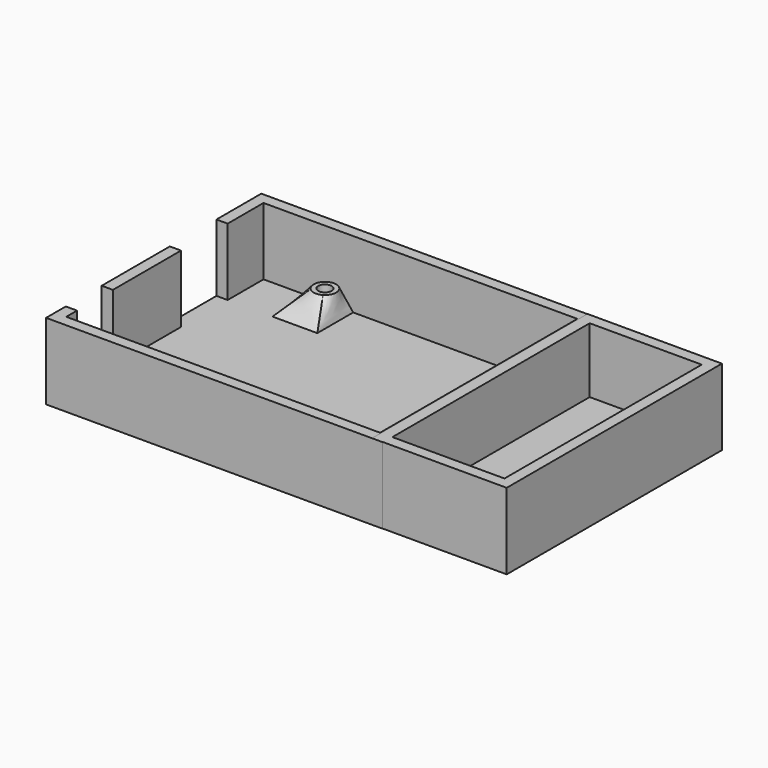
from build123d import *

# Parameters (mm, degrees)
F0_W      = 75
F0_H      = 60
F1_DEPTH  = 2
F2_W      = 75
F2_H      = 60
F2_W_2    = 70
F2_H_2    = 55
F3_DEPTH  = 15
F4_W      = 10
F4_H      = 10
F4_H_2    = 12
F11_D     = 3
F12_W     = 10
F12_H     = 15
F12_W_2   = 13
F13_DEPTH = 2.5
F14_W     = 30
F14_H     = 60
F15_DEPTH = 17
F16_T     = -2.5


with BuildPart() as f1:
    # F0 (on Top) → F1 (new body)
    with BuildSketch(Plane.XY):
        Rectangle(F0_W, F0_H)
    extrude(amount=F1_DEPTH)

    # F2 (on face) → F3 (join)
    with BuildSketch(Plane.XY.offset(2)):
        Rectangle(F2_W, F2_H)
        Rectangle(F2_W_2, F2_H_2, mode=Mode.SUBTRACT)
    extrude(amount=F3_DEPTH)

    # F4 (on face) → F7 section 0
    with BuildSketch(Plane.XY.offset(2)):
        with Locations((-20, 22.5)):
            Rectangle(F4_W, F4_H)
    # F6 (on offset) → F7 section 1
    with BuildSketch(Plane.XY.offset(7)):
        with BuildLine():
            ThreePointArc((-20.293224, 22.258062), (-18.819991, 21.520563), (-17.207788, 21.859863))
            ThreePointArc((-17.207788, 21.859863), (-16.000779, 23.937586), (-17.102572, 26.072968))
            ThreePointArc((-17.102572, 26.072968), (-18.99862, 26.449771), (-20.596534, 25.361817))
            ThreePointArc((-20.596534, 25.361817), (-20.988147, 23.756849), (-20.293224, 22.258062))
        make_face()
    loft()

    # F4 (on face) → F8 section 0
    with BuildSketch(Plane.XY.offset(2)):
        with Locations((30, 7.5)):
            Rectangle(F4_W, F4_H)
    # F6 (on offset) → F8 section 1
    with BuildSketch(Plane.XY.offset(7)):
        with BuildLine():
            ThreePointArc((29.818347, 6.650123), (31.321839, 6.006356), (32.901582, 6.429838))
            ThreePointArc((32.901582, 6.429838), (33.991199, 8.290416), (33.227758, 10.306891))
            ThreePointArc((33.227758, 10.306891), (31.280438, 10.99034), (29.482742, 9.976709))
            ThreePointArc((29.482742, 9.976709), (29.012626, 8.249059), (29.818347, 6.650123))
        make_face()
    loft()

    # F4 (on face) → F9 section 0
    with BuildSketch(Plane.XY.offset(2)):
        with Locations((30, -21.5)):
            Rectangle(F4_W, F4_H_2)
    # F6 (on offset) → F9 section 1
    with BuildSketch(Plane.XY.offset(7)):
        with BuildLine():
            ThreePointArc((29.529474, -17.961486), (29.007923, -19.698875), (29.798415, -21.331559))
            ThreePointArc((29.798415, -21.331559), (31.356554, -21.995881), (32.980542, -21.514447))
            ThreePointArc((32.980542, -21.514447), (33.997404, -19.613892), (33.157749, -17.628672))
            ThreePointArc((33.157749, -17.628672), (31.271639, -17.010452), (29.529474, -17.961486))
        make_face()
    loft()

    # F4 (on face) → F10 section 0
    with BuildSketch(Plane.XY.offset(2)):
        with Locations((-20, -22.5)):
            Rectangle(F4_W, F4_H)
    # F6 (on offset) → F10 section 1
    with BuildSketch(Plane.XY.offset(7)):
        with BuildLine():
            ThreePointArc((-19.030994, -21.977126), (-20.71328, -21.509114), (-22.291516, -22.256305))
            ThreePointArc((-22.291516, -22.256305), (-22.998858, -23.92446), (-22.393571, -25.632296))
            ThreePointArc((-22.393571, -25.632296), (-20.449964, -26.499499), (-18.54262, -25.555205))
            ThreePointArc((-18.54262, -25.555205), (-18.022967, -23.661909), (-19.030994, -21.977126))
        make_face()
    loft()

    # F11 (through all)
    with Locations(Plane.XY.offset(7)):
        with Locations((-18.5, 24), (31.5, 8.5), (31.5, -19.5), (-20.5, -24)):
            Hole(F11_D / 2)

    # F12 (on face) → F13 (cut, through all)
    with BuildSketch(Plane.YZ.offset(-35)):
        with Locations((-19.5, 9.5)):
            Rectangle(F12_W, F12_H)
        with Locations((11, 9.5)):
            Rectangle(F12_W_2, F12_H)
    extrude(amount=-F13_DEPTH, mode=Mode.SUBTRACT)


with BuildPart() as f15:
    # F14 (on Top) → F15 (new body)
    with BuildSketch(Plane.XY):
        with Locations((50.202258, 0.055048)):
            Rectangle(F14_W, F14_H)
    extrude(amount=F15_DEPTH)

    # F16
    f16_openings = [f15.faces().sort_by_distance(p)[0] for p in [
        (50.202258, 0.055048, 17),
    ]]
    offset(amount=F16_T, openings=f16_openings)


solid = Compound([f1.part, f15.part])
